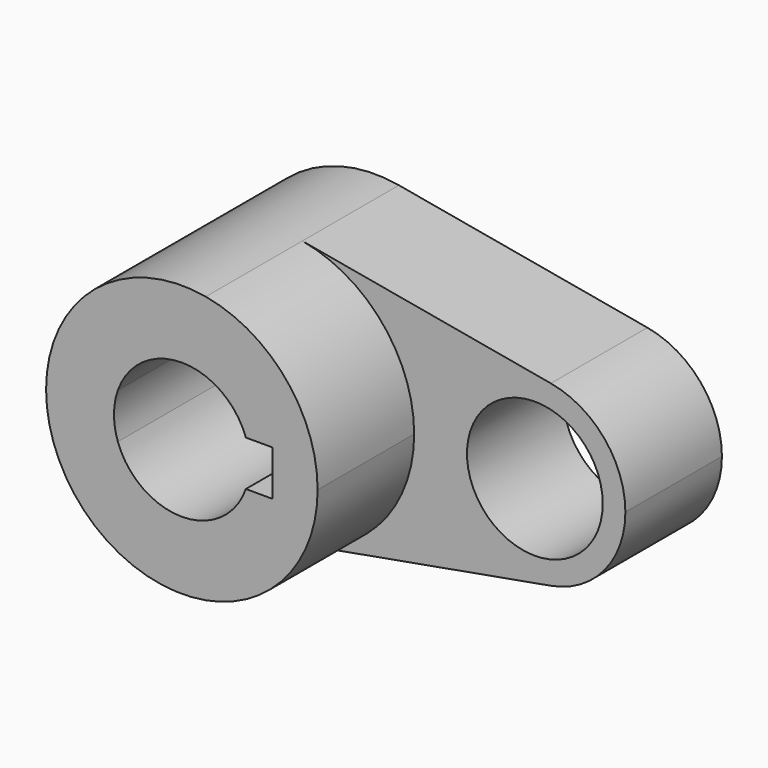
from build123d import *

# Parameters (mm, degrees)
F0_R     = 14.2875
F1_DEPTH = 25.4
F2_DEPTH = 50.8


with BuildPart() as f1:
    # F0 (on Front) → F1 (new body)
    with BuildSketch(Plane.XZ):
        with BuildLine():
            ThreePointArc((5.042647, 28.126541), (21.916025, 18.336262), (28.575, 0))
            ThreePointArc((28.575, 0), (21.916025, -18.336262), (5.042647, -28.126541))
            Line((5.042647, -28.126541), (57.336765, -18.751028))
            ThreePointArc((57.336765, -18.751028), (34.925, 0), (57.336765, 18.751028))
            Line((57.336765, 18.751028), (5.042647, 28.126541))
        make_face()
        with BuildLine():
            ThreePointArc((73.025, 0), (68.585683, 12.224174), (57.336765, 18.751028))
            ThreePointArc((57.336765, 18.751028), (34.925, 0), (57.336765, -18.751028))
            ThreePointArc((57.336765, -18.751028), (68.585683, -12.224174), (73.025, 0))
        make_face()
        with Locations((53.975, 0)):
            Circle(F0_R, mode=Mode.SUBTRACT)
    extrude(amount=F1_DEPTH)

    # F0 (on Front) → F2 (join)
    with BuildSketch(Plane.XZ):
        with BuildLine():
            ThreePointArc((5.042647, -28.126541), (21.916025, -18.336262), (28.575, 0))
            ThreePointArc((28.575, 0), (21.916025, 18.336262), (5.042647, 28.126541))
            ThreePointArc((5.042647, 28.126541), (-28.575, 0), (5.042647, -28.126541))
        make_face()
        with BuildLine():
            ThreePointArc((-13.470384, 4.7625), (0, 14.2875), (13.470384, 4.7625))
            Line((13.470384, 4.7625), (19.05, 4.7625))
            Line((19.05, 4.7625), (19.05, -4.7625))
            Line((19.05, -4.7625), (13.470384, -4.7625))
            ThreePointArc((13.470384, -4.7625), (0, -14.2875), (-13.470384, -4.7625))
            Line((-13.470384, -4.7625), (-19.05, -4.7625))
            Line((-19.05, -4.7625), (-19.05, 4.7625))
            Line((-19.05, 4.7625), (-13.470384, 4.7625))
        make_face(mode=Mode.SUBTRACT)
        with BuildLine():
            ThreePointArc((-13.470384, -4.7625), (-14.2875, 0), (-13.470384, 4.7625))
            Line((-13.470384, 4.7625), (-19.05, 4.7625))
            Line((-19.05, 4.7625), (-19.05, -4.7625))
            Line((-19.05, -4.7625), (-13.470384, -4.7625))
        make_face()
    extrude(amount=F2_DEPTH)


solid = f1.part
